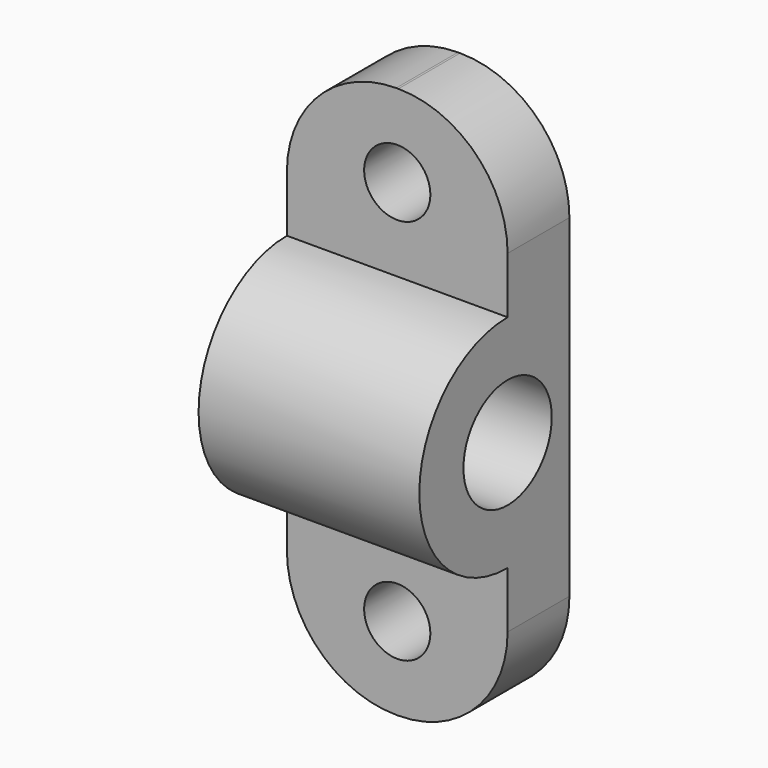
from build123d import *

# Parameters (mm, degrees)
PAD030_DEPTH             = 20
SKETCH021_R              = 5
POCKET001006_DEPTH       = 20.001
FILLET_R                 = 9.9
SKETCH024_R              = 3
POCKET002_DEPTH          = 7.001
CLONE076_ROLL_ANGLE      = 90
CLONE076_PLACEMENT_ANGLE = -90


with BuildPart() as part:
    # Sketch020 → Pad030 (new body)
    with BuildSketch(Plane.XY):
        with BuildLine():
            Line((18, 0), (25, 0))
            Line((25, 0), (25, 15))
            ThreePointArc((25, 15), (35, 25), (25, 35))
            Line((25, 35), (25, 50))
            Line((25, 50), (18, 50))
            Line((18, 50), (18, 0))
        make_face()
    extrude(amount=PAD030_DEPTH)

    # Sketch021 → Pocket001006 (cut, through all)
    with BuildSketch(Plane(origin=(0, 0, 0), x_dir=(1, 0, 0), z_dir=(0, 0, -1))):
        with Locations((25, -25)):
            Circle(SKETCH021_R)
    extrude(amount=-POCKET001006_DEPTH, mode=Mode.SUBTRACT)

    # Fillet
    fillet_edges = [part.edges().sort_by_distance(p)[0] for p in [
        (21.5, 0, 0),
        (21.5, 50, 0),
        (21.5, 50, 20),
        (21.5, 0, 20),
    ]]
    fillet(fillet_edges, radius=FILLET_R)

    # Sketch024 → Pocket002 (cut, through all)
    with BuildSketch(Plane.YZ.offset(25)):
        with Locations((7.5, 10)):
            Circle(SKETCH024_R)
        with Locations((42.5, 10)):
            Circle(SKETCH024_R)
    extrude(amount=-POCKET002_DEPTH, mode=Mode.SUBTRACT)


with BuildPart() as part_1:
    # Clone076 roll: moved
    add(part.part.rotate(Axis((0, 0, 0), (1, 0, 0)), CLONE076_ROLL_ANGLE))


with BuildPart() as part_2:
    # Clone076 placement: moved
    add(part_1.part.moved(Location((120.75, 1500, 0))).rotate(Axis((120.75, 1500, 0), (0, 0, 1)), CLONE076_PLACEMENT_ANGLE))


with BuildPart() as part_3:
    # Clone077 placement: moved
    add(part_2.part.moved(Location((75, 0, 0))))


solid = part_3.part
